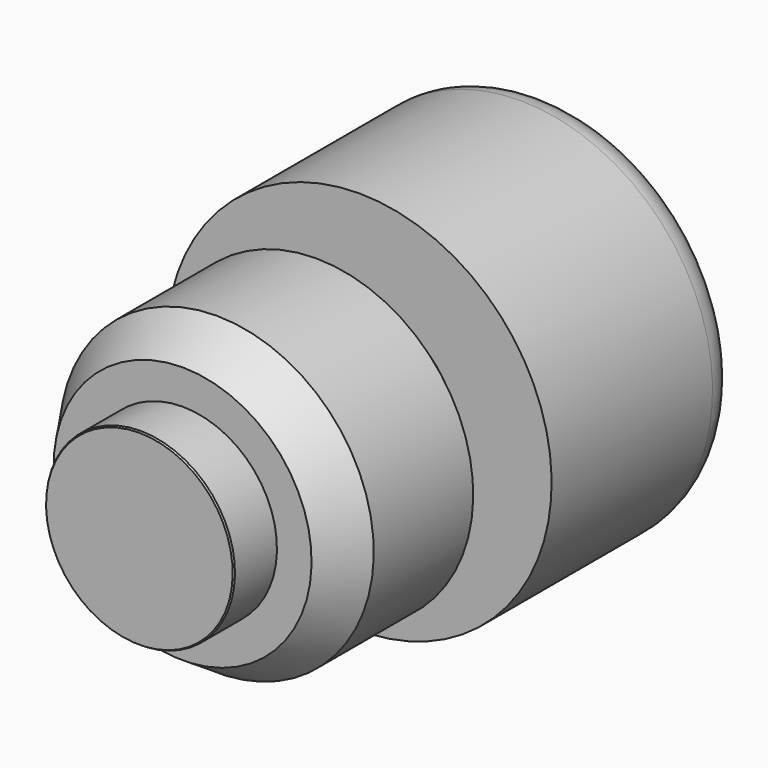
from build123d import *

# Parameters (mm, degrees)
F0_R     = 3
F1_DEPTH = 20
F8_R     = 5


with BuildPart() as f1:
    # F0 (on Front) → F1 (new body)
    with BuildSketch(Plane.XZ):
        Circle(F0_R)
    extrude(amount=F1_DEPTH)

    # F4 (on Right) → F5 (revolve)
    with BuildSketch(Plane.YZ):
        Polygon((-40.713192, 0), (-7.986492, 0), (-7.986492, 23.274794), (-32.708106, 23.274794), (-32.708106, 13.979694), (-40.713192, 13.979694), align=None)
    revolve(axis=Axis((0, -24.349842, 0), (0, 1, 0)))

    # F6 (on Right) → F7 (revolve, cut)
    with BuildSketch(Plane.YZ):
        Polygon((-42.708106, 12.505719), (-4.846163, 37.505719), (-42.708106, 37.505719), align=None)
    revolve(axis=Axis((0, 0, 0), (0, -1, 0)), mode=Mode.SUBTRACT)


with BuildPart() as f3:
    # F2 (on Right) → F3 (revolve)
    with BuildSketch(Plane.YZ):
        Polygon((0, 28.5), (0, 15), (17.5, 15), (17.5, 18), (18.5, 18), (18.5, 20), (30.5, 20), (30.5, 21.5), (32.3, 21.5), (32.3, 20), (34.8, 20), (34.8, 28.5), align=None)
    revolve(axis=Axis((0, -20, 0), (0, -1, 0)))

    # F8
    f8_edges = [f3.edges().sort_by_distance(p)[0] for p in [
        (0, 34.8, -28.5),
    ]]
    fillet(f8_edges, radius=F8_R)


solid = Compound([f1.part, f3.part])
